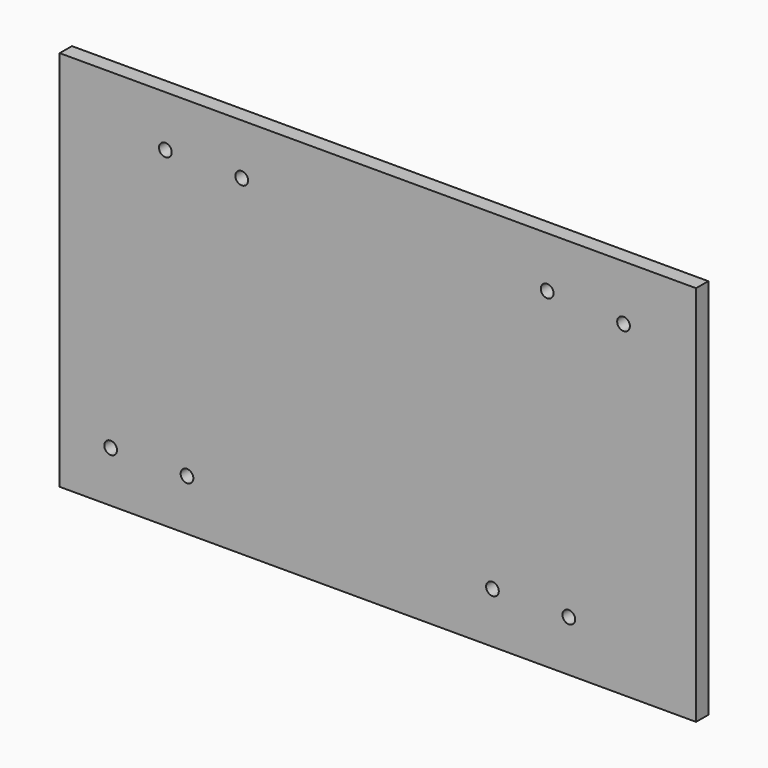
from build123d import *

# Parameters (mm, degrees)
F0_W     = 250
F0_H     = 150
F0_R     = 2.5
F1_DEPTH = 6


with BuildPart() as f1:
    # F0 (on Front) → F1 (new body)
    with BuildSketch(Plane.XZ):
        with Locations((1.093347, -39.248224)):
            Rectangle(F0_W, F0_H)
        with Locations((-103.906653, -94.248224)):
            Circle(F0_R, mode=Mode.SUBTRACT)
        with Locations((-73.906653, -94.248224)):
            Circle(F0_R, mode=Mode.SUBTRACT)
        with Locations((46.093347, -94.248224)):
            Circle(F0_R, mode=Mode.SUBTRACT)
        with Locations((76.093347, -94.248224)):
            Circle(F0_R, mode=Mode.SUBTRACT)
        with Locations((-82.402496, 15.751776)):
            Circle(F0_R, mode=Mode.SUBTRACT)
        with Locations((-52.402496, 15.751776)):
            Circle(F0_R, mode=Mode.SUBTRACT)
        with Locations((67.597504, 15.751776)):
            Circle(F0_R, mode=Mode.SUBTRACT)
        with Locations((97.597504, 14.145314)):
            Circle(F0_R, mode=Mode.SUBTRACT)
    extrude(amount=F1_DEPTH)


solid = f1.part
